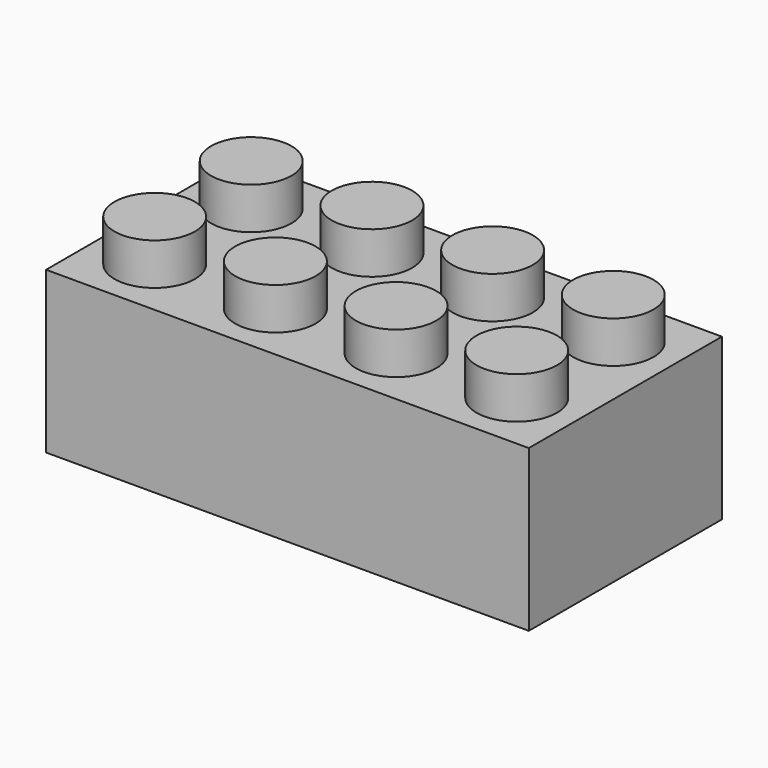
from build123d import *

# Parameters (mm, degrees)
F0_W     = 76.2
F0_H     = 38.1
F1_DEPTH = 25.4
F2_R     = 6.35
F3_DEPTH = 6.604


with BuildPart() as f1:
    # F0 (on Top) → F1 (new body)
    with BuildSketch(Plane.XY):
        with Locations((-38.1, 19.05)):
            Rectangle(F0_W, F0_H)
    extrude(amount=F1_DEPTH)

    # F2 (on face) → F3 (join)
    with BuildSketch(Plane.XY.offset(25.4)):
        with Locations((-66.675, 28.575)):
            Circle(F2_R)
        with Locations((-47.625, 28.575)):
            Circle(F2_R)
        with Locations((-28.575, 28.575)):
            Circle(F2_R)
        with Locations((-9.525, 28.575)):
            Circle(F2_R)
        with Locations((-9.525, 9.525)):
            Circle(F2_R)
        with Locations((-28.575, 9.525)):
            Circle(F2_R)
        with Locations((-47.625, 9.525)):
            Circle(F2_R)
        with Locations((-66.675, 9.525)):
            Circle(F2_R)
    extrude(amount=F3_DEPTH)


solid = f1.part
